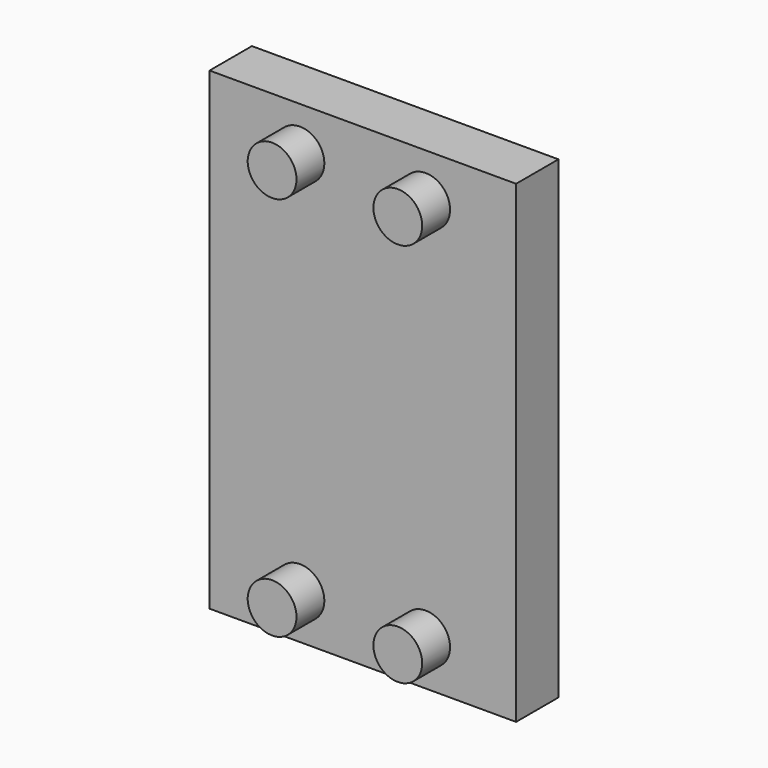
from build123d import *

# Parameters (mm, degrees)
F0_W     = 55.88
F0_H     = 86.36
F1_DEPTH = 9.652
F2_R     = 4.445
F3_DEPTH = 6.35


with BuildPart() as f1:
    # F0 (on Front) → F1 (new body)
    with BuildSketch(Plane.XZ):
        with Locations((-26.95058, 52.483489)):
            Rectangle(F0_W, F0_H)
    extrude(amount=F1_DEPTH)

    # F2 (on face) → F3 (join)
    with BuildSketch(Plane.XZ.offset(9.652)):
        with Locations((-38.410116, 87.588824)):
            Circle(F2_R)
        with Locations((-15.49518, 87.588824)):
            Circle(F2_R)
        with Locations((-38.410116, 17.380689)):
            Circle(F2_R)
        with Locations((-15.49518, 17.380689)):
            Circle(F2_R)
    extrude(amount=F3_DEPTH)


solid = f1.part
